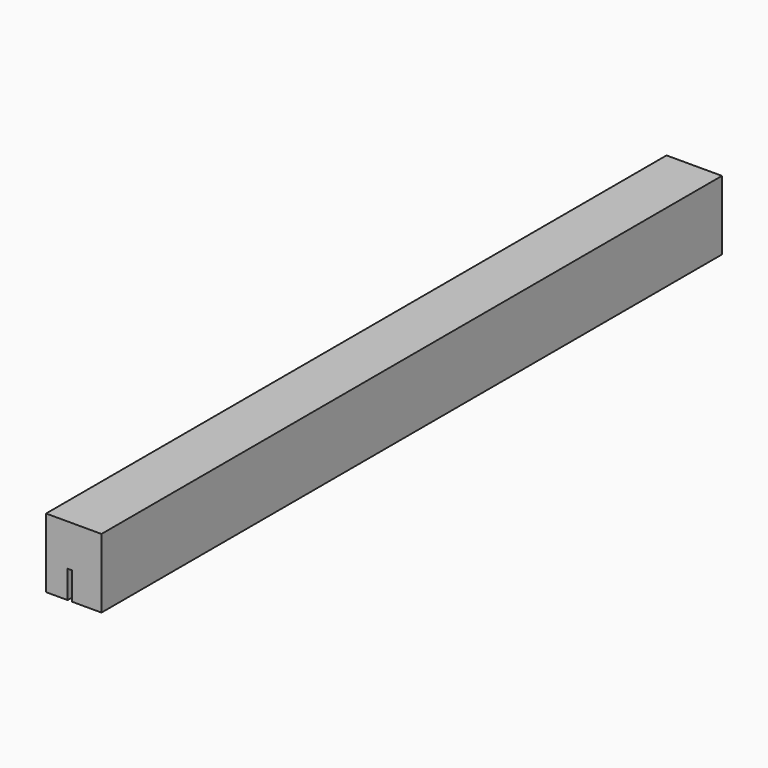
from build123d import *

# Parameters (mm, degrees)
F1_DEPTH = 25.4
F2_W     = 3.175
F2_H     = 63.5
F2_W_2   = 2.085983
F3_DEPTH = 12.7
F4_W     = 355.6
F4_H     = 58.603869
F5_DEPTH = 25.4


with BuildPart() as f1:
    # F0 (on Right) → F1 (new body)
    with BuildSketch(Plane.YZ):
        with BuildLine():
            Line((0, 19.445715), (0, 0))
            Line((0, 0), (355.6, 0))
            Line((355.6, 0), (355.6, 19.445715))
            Line((355.6, 19.445715), (355.6, 31.75))
            Line((355.6, 31.75), (343.690661, 32.121079))
            ThreePointArc((343.690661, 32.121079), (300.578253, 39.833745), (260.35, 57.15))
            ThreePointArc((260.35, 57.15), (177.8, 76.307596), (95.25, 57.15))
            ThreePointArc((95.25, 57.15), (55.021747, 39.833745), (11.909339, 32.121079))
            Line((11.909339, 32.121079), (0, 31.75))
            Line((0, 31.75), (0, 19.445715))
        make_face()
    extrude(amount=F1_DEPTH)

    # F2 (on face) → F3 (cut)
    with BuildSketch(Plane(origin=(0, 0, 0), x_dir=(1, 0, 0), z_dir=(0, 0, -1))):
        Polygon((11.9634, -292.1), (11.9634, -63.5), (9.877417, -63.5), (7.730067, -63.5), (7.730067, -292.1), (8.7884, -292.1), align=None)
        with Locations((10.3759, -323.85)):
            Rectangle(F2_W, F2_H)
        with Locations((10.920409, -31.75)):
            Rectangle(F2_W_2, F2_H)
    extrude(amount=-F3_DEPTH, mode=Mode.SUBTRACT)

    # F4 (on face) → F5 (cut)
    with BuildSketch(Plane.YZ.offset(25.4)):
        with Locations((177.8, 61.051934)):
            Rectangle(F4_W, F4_H)
    extrude(amount=-F5_DEPTH, mode=Mode.SUBTRACT)


solid = f1.part
